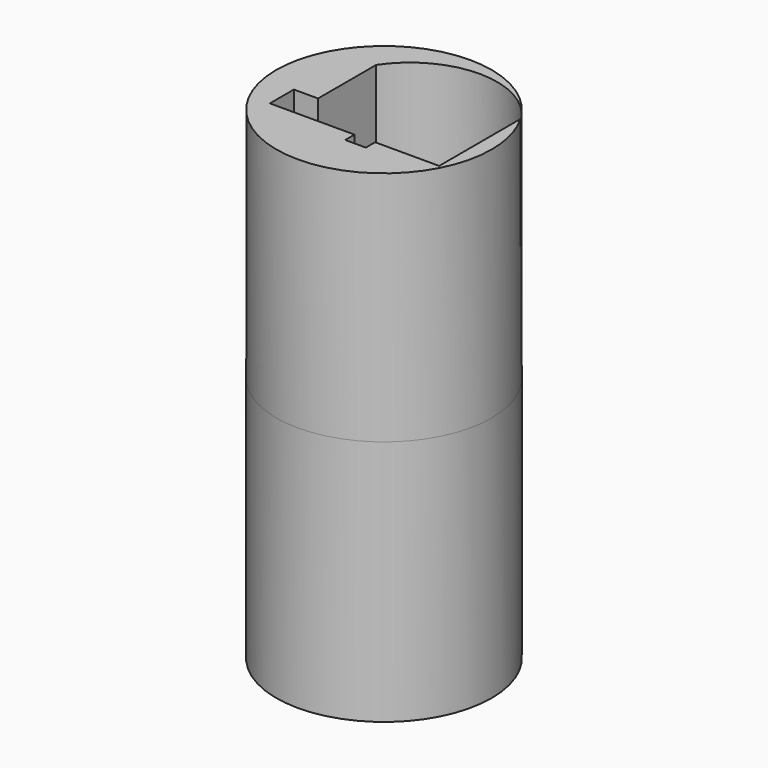
from build123d import *

# Parameters (mm, degrees)
F1_R          = 13.105
F1_R_2        = 5
F2_DEPTH      = 30
F2_DEPTH_BACK = 28.77
F4_W          = 2.51
F4_H          = 1.41
F4_W_2        = 2.9429391259
F4_H_2        = 1.44
F4_W_3        = 0.4070608741
F4_H_3        = 2.21
F5_DEPTH      = 28.77


with BuildPart() as f2:
    # F1 (on Top) → F2 (new body, two sides)
    with BuildSketch(Plane.XY) as f2_sk:
        Circle(F1_R)
        Circle(F1_R_2, mode=Mode.SUBTRACT)
    extrude(amount=-F2_DEPTH)
    extrude(f2_sk.sketch, amount=F2_DEPTH_BACK)

    # F4 (on offset) → F5 (cut)
    with BuildSketch(Plane.XY.offset(15)):
        with Locations((2.2699399906, -6.4672684696)):
            Rectangle(F4_W, F4_H)
        Polygon((-6.3350600094, -3.5522684696), (-9.2779991353, -3.5522684696), (-9.2779991353, -5.7622684696), (-6.3350600094, -5.7622684696), (1.0149399906, -5.7622684696), (3.5249399906, -5.7622684696), (10.9149399906, -5.7622684696), (10.9149399906, -3.5522684696), align=None)
        with BuildLine():
            ThreePointArc((11.3220008647, 6.7277315304), (2.4934704277, 11.4417501839), (-6.3350600094, 6.7277315304))
            Line((-6.3350600094, 6.7277315304), (11.3220008647, 6.7277315304))
        make_face()
        Polygon((-6.3350600094, -2.1122684696), (-6.3350600094, -3.5522684696), (10.9149399906, -3.5522684696), (11.3220008647, -3.5522684696), (11.3220008647, 6.7277315304), (-6.3350600094, 6.7277315304), align=None)
        with Locations((-7.8065295723, -2.8322684696)):
            Rectangle(F4_W_2, F4_H_2)
        with Locations((11.1184704277, -4.6572684696)):
            Rectangle(F4_W_3, F4_H_3)
    extrude(amount=F5_DEPTH, mode=Mode.SUBTRACT)


solid = f2.part
